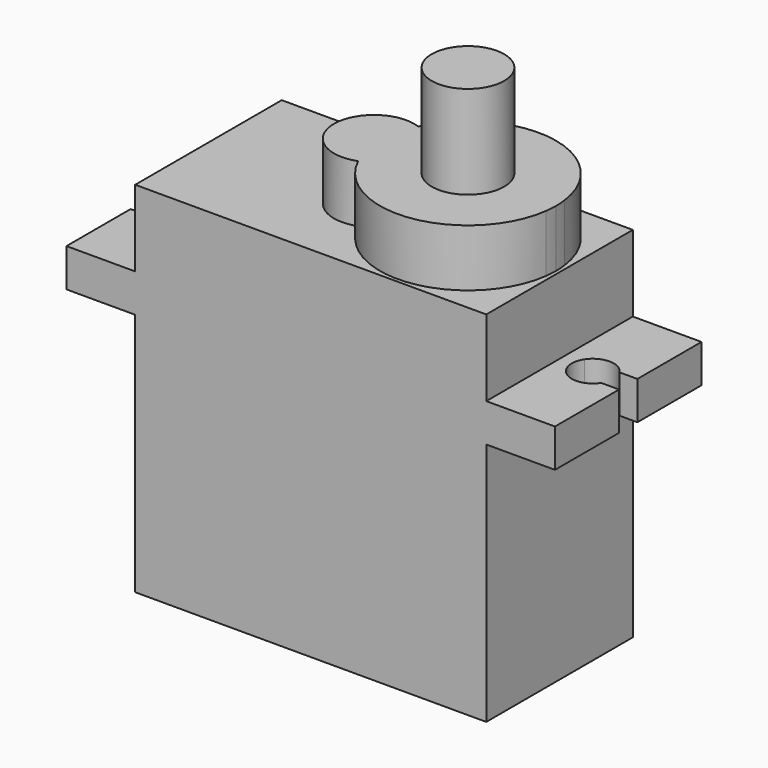
from build123d import *

# Parameters (mm, degrees)
F1_DEPTH      = 2.5
F2_DEPTH      = 11.25
F3_DEPTH      = 7.5
F3_DEPTH_BACK = 16
F4_R          = 2.375
F5_DEPTH      = 6.1


with BuildPart() as f1:
    # F0 (on Top) → F1 (new body)
    with BuildSketch(Plane.XY):
        with BuildLine():
            Line((11.6975234449, 6), (-11.3024765551, 6))
            Line((-11.3024765551, 6), (-11.3024765551, 0.75))
            Line((-11.3024765551, 0.75), (-2.9680530298, 0.75))
            ThreePointArc((-2.9680530298, 0.75), (-1.6195182493, 2.3513057402), (0.4713039327, 2.4570825404))
            ThreePointArc((0.4713039327, 2.4570825404), (6.5869056607, 5.706104124), (11.4236150439, 0.75))
            Line((11.4236150439, 0.75), (11.6975234449, 0.75))
            Line((11.6975234449, 0.75), (11.6975234449, 6))
        make_face()
        with BuildLine():
            Line((-2.9680530298, -0.75), (-11.3024765551, -0.75))
            Line((-11.3024765551, -0.75), (-11.3024765551, -6))
            Line((-11.3024765551, -6), (11.6975234449, -6))
            Line((11.6975234449, -6), (11.6975234449, -0.75))
            Line((11.6975234449, -0.75), (11.4236150439, -0.75))
            ThreePointArc((11.4236150439, -0.75), (6.5869056607, -5.706104124), (0.4713039327, -2.4570825404))
            ThreePointArc((0.4713039327, -2.4570825404), (-1.6195182493, -2.3513057402), (-2.9680530298, -0.75))
        make_face()
        with BuildLine():
            Line((-2.9680530298, 0.75), (-11.3024765551, 0.75))
            Line((-11.3024765551, 0.75), (-11.3024765551, -0.75))
            Line((-11.3024765551, -0.75), (-2.9680530298, -0.75))
            ThreePointArc((-2.9680530298, -0.75), (-3.0774765551, 0), (-2.9680530298, 0.75))
        make_face()
        with BuildLine():
            Line((-11.3024765551, -0.75), (-11.3024765551, 0.75))
            Line((-11.3024765551, 0.75), (-12.7225569428, 0.75))
            ThreePointArc((-12.7225569428, 0.75), (-12.5568129489, 0.3911622403), (-12.5, 0))
            ThreePointArc((-12.5, 0), (-12.5568129489, -0.3911622403), (-12.7225569428, -0.75))
            Line((-12.7225569428, -0.75), (-11.3024765551, -0.75))
        make_face()
        with BuildLine():
            Line((-11.3024765551, 0.75), (-11.3024765551, 6))
            Line((-11.3024765551, 6), (-15.8024765551, 6))
            Line((-15.8024765551, 6), (-15.8024765551, 0.75))
            Line((-15.8024765551, 0.75), (-15.0274430572, 0.75))
            ThreePointArc((-15.0274430572, 0.75), (-13.875, 1.375), (-12.7225569428, 0.75))
            Line((-12.7225569428, 0.75), (-11.3024765551, 0.75))
        make_face()
        with BuildLine():
            Line((-11.3024765551, -6), (-11.3024765551, -0.75))
            Line((-11.3024765551, -0.75), (-12.7225569428, -0.75))
            ThreePointArc((-12.7225569428, -0.75), (-13.875, -1.375), (-15.0274430572, -0.75))
            Line((-15.0274430572, -0.75), (-15.8024765551, -0.75))
            Line((-15.8024765551, -0.75), (-15.8024765551, -6))
            Line((-15.8024765551, -6), (-11.3024765551, -6))
        make_face()
        with BuildLine():
            Line((16.1975234449, 6), (11.6975234449, 6))
            Line((11.6975234449, 6), (11.6975234449, 0.75))
            Line((11.6975234449, 0.75), (12.7225569428, 0.75))
            ThreePointArc((12.7225569428, 0.75), (13.875, 1.375), (15.0274430572, 0.75))
            Line((15.0274430572, 0.75), (16.1975234449, 0.75))
            Line((16.1975234449, 0.75), (16.1975234449, 6))
        make_face()
        with BuildLine():
            Line((12.7225569428, -0.75), (11.6975234449, -0.75))
            Line((11.6975234449, -0.75), (11.6975234449, -6))
            Line((11.6975234449, -6), (16.1975234449, -6))
            Line((16.1975234449, -6), (16.1975234449, -0.75))
            Line((16.1975234449, -0.75), (15.0274430572, -0.75))
            ThreePointArc((15.0274430572, -0.75), (13.875, -1.375), (12.7225569428, -0.75))
        make_face()
        with BuildLine():
            Line((12.7225569428, 0.75), (11.6975234449, 0.75))
            Line((11.6975234449, 0.75), (11.6975234449, -0.75))
            Line((11.6975234449, -0.75), (12.7225569428, -0.75))
            ThreePointArc((12.7225569428, -0.75), (12.5, 0), (12.7225569428, 0.75))
        make_face()
        with BuildLine():
            Line((2.0630999196, 0.75), (11.4236150439, 0.75))
            ThreePointArc((11.4236150439, 0.75), (6.5869056607, 5.706104124), (0.4713039327, 2.4570825404))
            ThreePointArc((0.4713039327, 2.4570825404), (1.4673741627, 1.7901950232), (2.0630999196, 0.75))
        make_face()
        with BuildLine():
            ThreePointArc((0.4713039327, 2.4570825404), (-1.6195182493, 2.3513057402), (-2.9680530298, 0.75))
            Line((-2.9680530298, 0.75), (-0.0285681541, 0.75))
            ThreePointArc((-0.0285681541, 0.75), (0.1552484274, 1.6229025328), (0.4713039327, 2.4570825404))
        make_face()
        with BuildLine():
            Line((-0.0285681541, 0.75), (-2.9680530298, 0.75))
            ThreePointArc((-2.9680530298, 0.75), (-3.0774765551, 0), (-2.9680530298, -0.75))
            Line((-2.9680530298, -0.75), (-0.0285681541, -0.75))
            ThreePointArc((-0.0285681541, -0.75), (-0.0774765551, 0), (-0.0285681541, 0.75))
        make_face()
        with BuildLine():
            Line((-0.0285681541, -0.75), (-2.9680530298, -0.75))
            ThreePointArc((-2.9680530298, -0.75), (-1.6195182493, -2.3513057402), (0.4713039327, -2.4570825404))
            ThreePointArc((0.4713039327, -2.4570825404), (0.1552484274, -1.6229025328), (-0.0285681541, -0.75))
        make_face()
        with BuildLine():
            Line((2.0630999196, -0.75), (-0.0285681541, -0.75))
            ThreePointArc((-0.0285681541, -0.75), (0.1552484274, -1.6229025328), (0.4713039327, -2.4570825404))
            ThreePointArc((0.4713039327, -2.4570825404), (1.4673741627, -1.7901950232), (2.0630999196, -0.75))
        make_face()
        with BuildLine():
            Line((2.0630999196, 0.75), (-0.0285681541, 0.75))
            ThreePointArc((-0.0285681541, 0.75), (-0.0774765551, 0), (-0.0285681541, -0.75))
            Line((-0.0285681541, -0.75), (2.0630999196, -0.75))
            ThreePointArc((2.0630999196, -0.75), (2.1450235167, -0.3789701531), (2.1725234449, 0))
            ThreePointArc((2.1725234449, 0), (2.1450235167, 0.3789701531), (2.0630999196, 0.75))
        make_face()
        with BuildLine():
            ThreePointArc((0.4713039327, 2.4570825404), (0.1552484274, 1.6229025328), (-0.0285681541, 0.75))
            Line((-0.0285681541, 0.75), (2.0630999196, 0.75))
            ThreePointArc((2.0630999196, 0.75), (1.4673741627, 1.7901950232), (0.4713039327, 2.4570825404))
        make_face()
        with BuildLine():
            ThreePointArc((11.4725234449, 0), (11.4602833733, 0.375796498), (11.4236150439, 0.75))
            Line((11.4236150439, 0.75), (2.0630999196, 0.75))
            ThreePointArc((2.0630999196, 0.75), (2.1450235167, 0.3789701531), (2.1725234449, 0))
            ThreePointArc((2.1725234449, 0), (2.1450235167, -0.3789701531), (2.0630999196, -0.75))
            Line((2.0630999196, -0.75), (11.4236150439, -0.75))
            ThreePointArc((11.4236150439, -0.75), (11.4602833733, -0.375796498), (11.4725234449, 0))
        make_face()
        with BuildLine():
            ThreePointArc((0.4713039327, -2.4570825404), (6.5869056607, -5.706104124), (11.4236150439, -0.75))
            Line((11.4236150439, -0.75), (2.0630999196, -0.75))
            ThreePointArc((2.0630999196, -0.75), (1.4673741627, -1.7901950232), (0.4713039327, -2.4570825404))
        make_face()
        with BuildLine():
            Line((11.6975234449, -0.75), (11.6975234449, 0.75))
            Line((11.6975234449, 0.75), (11.4236150439, 0.75))
            ThreePointArc((11.4236150439, 0.75), (11.4602833733, 0.375796498), (11.4725234449, 0))
            ThreePointArc((11.4725234449, 0), (11.4602833733, -0.375796498), (11.4236150439, -0.75))
            Line((11.4236150439, -0.75), (11.6975234449, -0.75))
        make_face()
    extrude(amount=F1_DEPTH)

    # F0 (on Top) → F2 (join)
    with BuildSketch(Plane.XY):
        with BuildLine():
            Line((2.0630999196, 0.75), (11.4236150439, 0.75))
            ThreePointArc((11.4236150439, 0.75), (6.5869056607, 5.706104124), (0.4713039327, 2.4570825404))
            ThreePointArc((0.4713039327, 2.4570825404), (1.4673741627, 1.7901950232), (2.0630999196, 0.75))
        make_face()
        with BuildLine():
            ThreePointArc((0.4713039327, -2.4570825404), (6.5869056607, -5.706104124), (11.4236150439, -0.75))
            Line((11.4236150439, -0.75), (2.0630999196, -0.75))
            ThreePointArc((2.0630999196, -0.75), (1.4673741627, -1.7901950232), (0.4713039327, -2.4570825404))
        make_face()
        with BuildLine():
            ThreePointArc((11.4725234449, 0), (11.4602833733, 0.375796498), (11.4236150439, 0.75))
            Line((11.4236150439, 0.75), (2.0630999196, 0.75))
            ThreePointArc((2.0630999196, 0.75), (2.1450235167, 0.3789701531), (2.1725234449, 0))
            ThreePointArc((2.1725234449, 0), (2.1450235167, -0.3789701531), (2.0630999196, -0.75))
            Line((2.0630999196, -0.75), (11.4236150439, -0.75))
            ThreePointArc((11.4236150439, -0.75), (11.4602833733, -0.375796498), (11.4725234449, 0))
        make_face()
        with BuildLine():
            Line((2.0630999196, 0.75), (-0.0285681541, 0.75))
            ThreePointArc((-0.0285681541, 0.75), (-0.0774765551, 0), (-0.0285681541, -0.75))
            Line((-0.0285681541, -0.75), (2.0630999196, -0.75))
            ThreePointArc((2.0630999196, -0.75), (2.1450235167, -0.3789701531), (2.1725234449, 0))
            ThreePointArc((2.1725234449, 0), (2.1450235167, 0.3789701531), (2.0630999196, 0.75))
        make_face()
        with BuildLine():
            ThreePointArc((0.4713039327, 2.4570825404), (0.1552484274, 1.6229025328), (-0.0285681541, 0.75))
            Line((-0.0285681541, 0.75), (2.0630999196, 0.75))
            ThreePointArc((2.0630999196, 0.75), (1.4673741627, 1.7901950232), (0.4713039327, 2.4570825404))
        make_face()
        with BuildLine():
            ThreePointArc((0.4713039327, 2.4570825404), (-1.6195182493, 2.3513057402), (-2.9680530298, 0.75))
            Line((-2.9680530298, 0.75), (-0.0285681541, 0.75))
            ThreePointArc((-0.0285681541, 0.75), (0.1552484274, 1.6229025328), (0.4713039327, 2.4570825404))
        make_face()
        with BuildLine():
            Line((-0.0285681541, 0.75), (-2.9680530298, 0.75))
            ThreePointArc((-2.9680530298, 0.75), (-3.0774765551, 0), (-2.9680530298, -0.75))
            Line((-2.9680530298, -0.75), (-0.0285681541, -0.75))
            ThreePointArc((-0.0285681541, -0.75), (-0.0774765551, 0), (-0.0285681541, 0.75))
        make_face()
        with BuildLine():
            Line((-0.0285681541, -0.75), (-2.9680530298, -0.75))
            ThreePointArc((-2.9680530298, -0.75), (-1.6195182493, -2.3513057402), (0.4713039327, -2.4570825404))
            ThreePointArc((0.4713039327, -2.4570825404), (0.1552484274, -1.6229025328), (-0.0285681541, -0.75))
        make_face()
        with BuildLine():
            Line((2.0630999196, -0.75), (-0.0285681541, -0.75))
            ThreePointArc((-0.0285681541, -0.75), (0.1552484274, -1.6229025328), (0.4713039327, -2.4570825404))
            ThreePointArc((0.4713039327, -2.4570825404), (1.4673741627, -1.7901950232), (2.0630999196, -0.75))
        make_face()
    extrude(amount=F2_DEPTH)

    # F0 (on Top) → F3 (join, two sides)
    with BuildSketch(Plane.XY) as f3_sk:
        with BuildLine():
            Line((11.6975234449, 6), (-11.3024765551, 6))
            Line((-11.3024765551, 6), (-11.3024765551, 0.75))
            Line((-11.3024765551, 0.75), (-2.9680530298, 0.75))
            ThreePointArc((-2.9680530298, 0.75), (-1.6195182493, 2.3513057402), (0.4713039327, 2.4570825404))
            ThreePointArc((0.4713039327, 2.4570825404), (6.5869056607, 5.706104124), (11.4236150439, 0.75))
            Line((11.4236150439, 0.75), (11.6975234449, 0.75))
            Line((11.6975234449, 0.75), (11.6975234449, 6))
        make_face()
        with BuildLine():
            Line((-2.9680530298, -0.75), (-11.3024765551, -0.75))
            Line((-11.3024765551, -0.75), (-11.3024765551, -6))
            Line((-11.3024765551, -6), (11.6975234449, -6))
            Line((11.6975234449, -6), (11.6975234449, -0.75))
            Line((11.6975234449, -0.75), (11.4236150439, -0.75))
            ThreePointArc((11.4236150439, -0.75), (6.5869056607, -5.706104124), (0.4713039327, -2.4570825404))
            ThreePointArc((0.4713039327, -2.4570825404), (-1.6195182493, -2.3513057402), (-2.9680530298, -0.75))
        make_face()
        with BuildLine():
            Line((-2.9680530298, 0.75), (-11.3024765551, 0.75))
            Line((-11.3024765551, 0.75), (-11.3024765551, -0.75))
            Line((-11.3024765551, -0.75), (-2.9680530298, -0.75))
            ThreePointArc((-2.9680530298, -0.75), (-3.0774765551, 0), (-2.9680530298, 0.75))
        make_face()
        with BuildLine():
            Line((-0.0285681541, 0.75), (-2.9680530298, 0.75))
            ThreePointArc((-2.9680530298, 0.75), (-3.0774765551, 0), (-2.9680530298, -0.75))
            Line((-2.9680530298, -0.75), (-0.0285681541, -0.75))
            ThreePointArc((-0.0285681541, -0.75), (-0.0774765551, 0), (-0.0285681541, 0.75))
        make_face()
        with BuildLine():
            ThreePointArc((0.4713039327, 2.4570825404), (-1.6195182493, 2.3513057402), (-2.9680530298, 0.75))
            Line((-2.9680530298, 0.75), (-0.0285681541, 0.75))
            ThreePointArc((-0.0285681541, 0.75), (0.1552484274, 1.6229025328), (0.4713039327, 2.4570825404))
        make_face()
        with BuildLine():
            Line((-0.0285681541, -0.75), (-2.9680530298, -0.75))
            ThreePointArc((-2.9680530298, -0.75), (-1.6195182493, -2.3513057402), (0.4713039327, -2.4570825404))
            ThreePointArc((0.4713039327, -2.4570825404), (0.1552484274, -1.6229025328), (-0.0285681541, -0.75))
        make_face()
        with BuildLine():
            Line((2.0630999196, -0.75), (-0.0285681541, -0.75))
            ThreePointArc((-0.0285681541, -0.75), (0.1552484274, -1.6229025328), (0.4713039327, -2.4570825404))
            ThreePointArc((0.4713039327, -2.4570825404), (1.4673741627, -1.7901950232), (2.0630999196, -0.75))
        make_face()
        with BuildLine():
            Line((2.0630999196, 0.75), (-0.0285681541, 0.75))
            ThreePointArc((-0.0285681541, 0.75), (-0.0774765551, 0), (-0.0285681541, -0.75))
            Line((-0.0285681541, -0.75), (2.0630999196, -0.75))
            ThreePointArc((2.0630999196, -0.75), (2.1450235167, -0.3789701531), (2.1725234449, 0))
            ThreePointArc((2.1725234449, 0), (2.1450235167, 0.3789701531), (2.0630999196, 0.75))
        make_face()
        with BuildLine():
            ThreePointArc((0.4713039327, 2.4570825404), (0.1552484274, 1.6229025328), (-0.0285681541, 0.75))
            Line((-0.0285681541, 0.75), (2.0630999196, 0.75))
            ThreePointArc((2.0630999196, 0.75), (1.4673741627, 1.7901950232), (0.4713039327, 2.4570825404))
        make_face()
        with BuildLine():
            Line((2.0630999196, 0.75), (11.4236150439, 0.75))
            ThreePointArc((11.4236150439, 0.75), (6.5869056607, 5.706104124), (0.4713039327, 2.4570825404))
            ThreePointArc((0.4713039327, 2.4570825404), (1.4673741627, 1.7901950232), (2.0630999196, 0.75))
        make_face()
        with BuildLine():
            ThreePointArc((0.4713039327, -2.4570825404), (6.5869056607, -5.706104124), (11.4236150439, -0.75))
            Line((11.4236150439, -0.75), (2.0630999196, -0.75))
            ThreePointArc((2.0630999196, -0.75), (1.4673741627, -1.7901950232), (0.4713039327, -2.4570825404))
        make_face()
        with BuildLine():
            ThreePointArc((11.4725234449, 0), (11.4602833733, 0.375796498), (11.4236150439, 0.75))
            Line((11.4236150439, 0.75), (2.0630999196, 0.75))
            ThreePointArc((2.0630999196, 0.75), (2.1450235167, 0.3789701531), (2.1725234449, 0))
            ThreePointArc((2.1725234449, 0), (2.1450235167, -0.3789701531), (2.0630999196, -0.75))
            Line((2.0630999196, -0.75), (11.4236150439, -0.75))
            ThreePointArc((11.4236150439, -0.75), (11.4602833733, -0.375796498), (11.4725234449, 0))
        make_face()
        with BuildLine():
            Line((11.6975234449, -0.75), (11.6975234449, 0.75))
            Line((11.6975234449, 0.75), (11.4236150439, 0.75))
            ThreePointArc((11.4236150439, 0.75), (11.4602833733, 0.375796498), (11.4725234449, 0))
            ThreePointArc((11.4725234449, 0), (11.4602833733, -0.375796498), (11.4236150439, -0.75))
            Line((11.4236150439, -0.75), (11.6975234449, -0.75))
        make_face()
    extrude(amount=F3_DEPTH)
    extrude(f3_sk.sketch, amount=-F3_DEPTH_BACK)

    # F4 (on face) → F5 (join)
    with BuildSketch(Plane.XY.offset(11.25)):
        with Locations((5.6975234449, 0)):
            Circle(F4_R)
    extrude(amount=F5_DEPTH)


solid = f1.part
